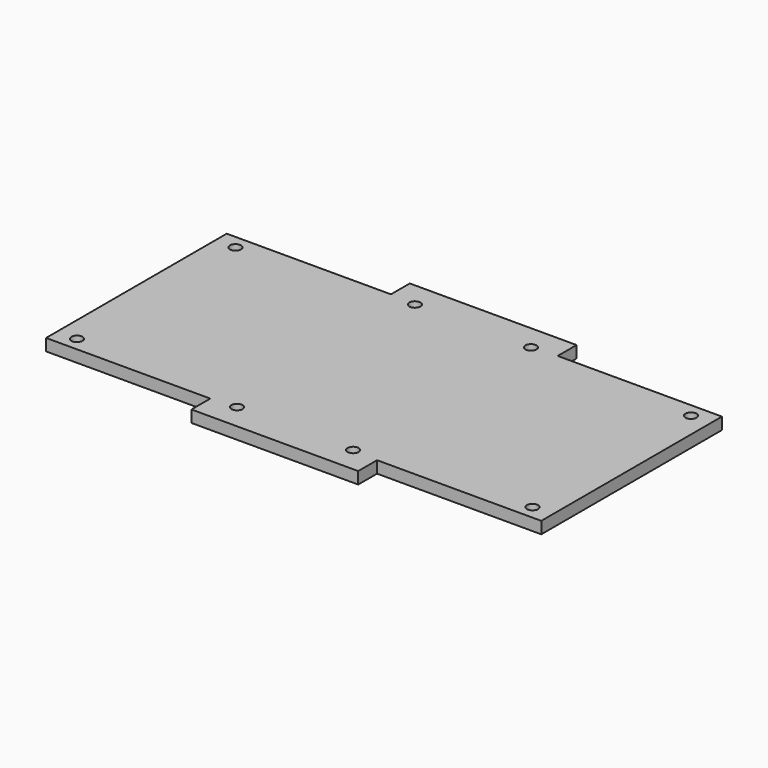
from build123d import *

# Parameters (mm, degrees)
F0_R     = 1.4
F1_DEPTH = 3


with BuildPart() as f1:
    # F0 (on Top) → F1 (new body)
    with BuildSketch(Plane.XY):
        Polygon((-21.05, 28.5), (-62.5, 28.5), (-62.5, -28.5), (-21.05, -28.5), (-21.05, -34.45), (21.05, -34.45), (21.05, -28.5), (62.5, -28.5), (62.5, 28.5), (21.05, 28.5), (21.05, 34.45), (-21.05, 34.45), align=None)
        with Locations((-57.5, -25)):
            Circle(F0_R, mode=Mode.SUBTRACT)
        with Locations((-14.65, -28.05)):
            Circle(F0_R, mode=Mode.SUBTRACT)
        with Locations((14.65, -28.05)):
            Circle(F0_R, mode=Mode.SUBTRACT)
        with Locations((57.5, -25)):
            Circle(F0_R, mode=Mode.SUBTRACT)
        with Locations((-57.5, 25)):
            Circle(F0_R, mode=Mode.SUBTRACT)
        with Locations((-14.65, 28.05)):
            Circle(F0_R, mode=Mode.SUBTRACT)
        with Locations((14.65, 28.05)):
            Circle(F0_R, mode=Mode.SUBTRACT)
        with Locations((57.5, 25)):
            Circle(F0_R, mode=Mode.SUBTRACT)
    extrude(amount=F1_DEPTH)


solid = f1.part
